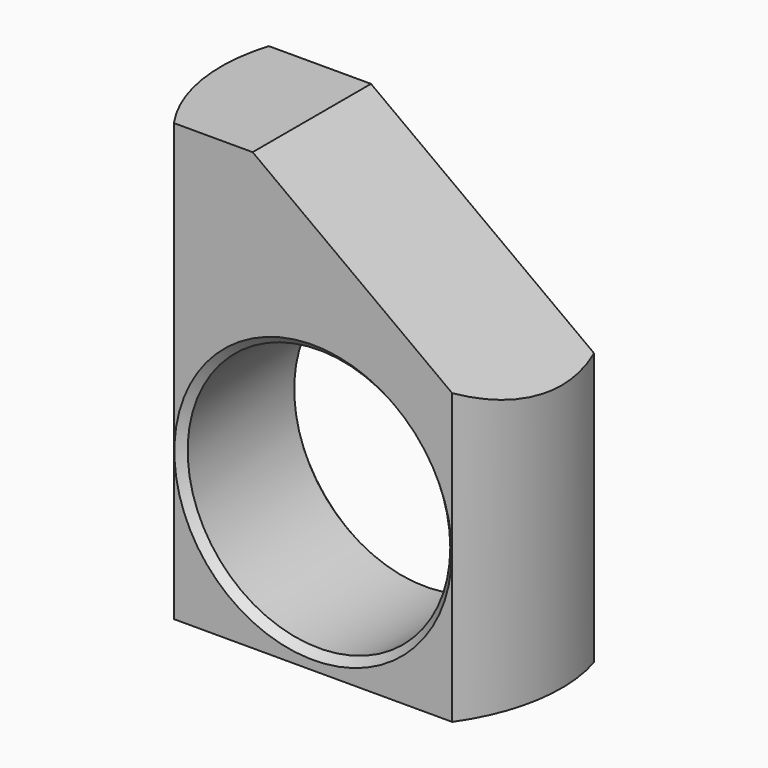
from build123d import *

# Parameters (mm, degrees)
F1_R          = 11.5
F2_DEPTH      = 19.51505
F2_DEPTH_BACK = 10
F0_R          = 8.875
F3_DEPTH      = 25
F3_DEPTH_BACK = 25
F5_DEPTH      = 25
F5_DEPTH_BACK = 25
F6_W          = 31.0526300933
F6_H          = 13.8705706969
F6_H_2        = 13.1759493425
F7_DEPTH      = 25
F7_DEPTH_BACK = 25
F8_SIZE       = 0.5
F9_R          = 0.5
F10_DEPTH     = 9.3
F11_DEPTH     = 9.7


with BuildPart() as f2:
    # F1 (on Top) → F2 (new body, two sides)
    with BuildSketch(Plane.XY) as f2_sk:
        Circle(F1_R)
    extrude(amount=F2_DEPTH)
    extrude(f2_sk.sketch, amount=-F2_DEPTH_BACK)

    # F0 (on Front) → F3 (cut, two sides)
    with BuildSketch(Plane.XZ) as f3_sk:
        Circle(F0_R)
    extrude(amount=-F3_DEPTH, mode=Mode.SUBTRACT)
    extrude(f3_sk.sketch, amount=F3_DEPTH_BACK, mode=Mode.SUBTRACT)

    # F4 (on Front) → F5 (cut, two sides)
    with BuildSketch(Plane.XZ) as f5_sk:
        Polygon((24.7668549418, 28.5545103252), (-16.3316316903, 28.5545103252), (24.7668549418, -1.7773286672), align=None)
    extrude(amount=-F5_DEPTH, mode=Mode.SUBTRACT)
    extrude(f5_sk.sketch, amount=F5_DEPTH_BACK, mode=Mode.SUBTRACT)

    # F6 (on Top) → F7 (cut, two sides)
    with BuildSketch(Plane.XY) as f7_sk:
        with Locations((1.910218969, 10.3145037405)):
            Rectangle(F6_W, F6_H)
        with Locations((1.910218969, -13.2087562792)):
            Rectangle(F6_W, F6_H_2)
    extrude(amount=-F7_DEPTH, mode=Mode.SUBTRACT)
    extrude(f7_sk.sketch, amount=F7_DEPTH_BACK, mode=Mode.SUBTRACT)

    # F8
    f8_edges = [f2.edges().sort_by_distance(p)[0] for p in [
        (-8.875, 3.379218, 0),
        (-8.875, -6.620782, 0),
    ]]
    chamfer(f8_edges, length=F8_SIZE)

    # F9 (on Top) → F10 (cut)
    with BuildSketch(Plane.XY):
        with BuildLine():
            ThreePointArc((-2.2312842775, 0.1235368601), (-2.7262590243, -0.081488393), (-2.9312842775, -0.5764631399))
            Line((-2.9312842775, -0.5764631399), (-2.9312842775, -2.6688878175))
            ThreePointArc((-2.9312842775, -2.6688878175), (-2.7262590243, -3.1638625643), (-2.2312842775, -3.3688878175))
            ThreePointArc((-2.2312842775, -3.3688878175), (-1.7363095307, -3.1638625643), (-1.5312842775, -2.6688878175))
            Line((-1.5312842775, -2.6688878175), (-1.5312842775, -0.5764631399))
            ThreePointArc((-1.5312842775, -0.5764631399), (-1.7363095307, -0.081488393), (-2.2312842775, 0.1235368601))
        make_face()
        with BuildLine():
            ThreePointArc((0.0221650116, 0.1235368601), (-0.4728097352, -0.081488393), (-0.6778349884, -0.5764631399))
            Line((-0.6778349884, -0.5764631399), (-0.6778349884, -2.6688878175))
            ThreePointArc((-0.6778349884, -2.6688878175), (-0.4728097352, -3.1638625643), (0.0221650116, -3.3688878175))
            ThreePointArc((0.0221650116, -3.3688878175), (0.5171397584, -3.1638625643), (0.7221650116, -2.6688878175))
            Line((0.7221650116, -2.6688878175), (0.7221650116, -0.5764631399))
            ThreePointArc((0.7221650116, -0.5764631399), (0.5171397584, -0.081488393), (0.0221650116, 0.1235368601))
        make_face()
        with Locations((0.0201533299, -1.6274178245)):
            Circle(F9_R, mode=Mode.SUBTRACT)
        with BuildLine():
            ThreePointArc((2.2751650116, 0.1235368601), (1.7801902648, -0.081488393), (1.5751650116, -0.5764631399))
            Line((1.5751650116, -0.5764631399), (1.5751650116, -2.6688878175))
            ThreePointArc((1.5751650116, -2.6688878175), (1.7801902648, -3.1638625643), (2.2751650116, -3.3688878175))
            ThreePointArc((2.2751650116, -3.3688878175), (2.7701397584, -3.1638625643), (2.9751650116, -2.6688878175))
            Line((2.9751650116, -2.6688878175), (2.9751650116, -0.5764631399))
            ThreePointArc((2.9751650116, -0.5764631399), (2.7701397584, -0.081488393), (2.2751650116, 0.1235368601))
        make_face()
    extrude(amount=F10_DEPTH, mode=Mode.SUBTRACT)

    # F9 (on Top) → F11 (cut)
    with BuildSketch(Plane.XY):
        with Locations((0.0201533299, -1.6274178245)):
            Circle(F9_R)
    extrude(amount=F11_DEPTH, mode=Mode.SUBTRACT)


solid = f2.part
